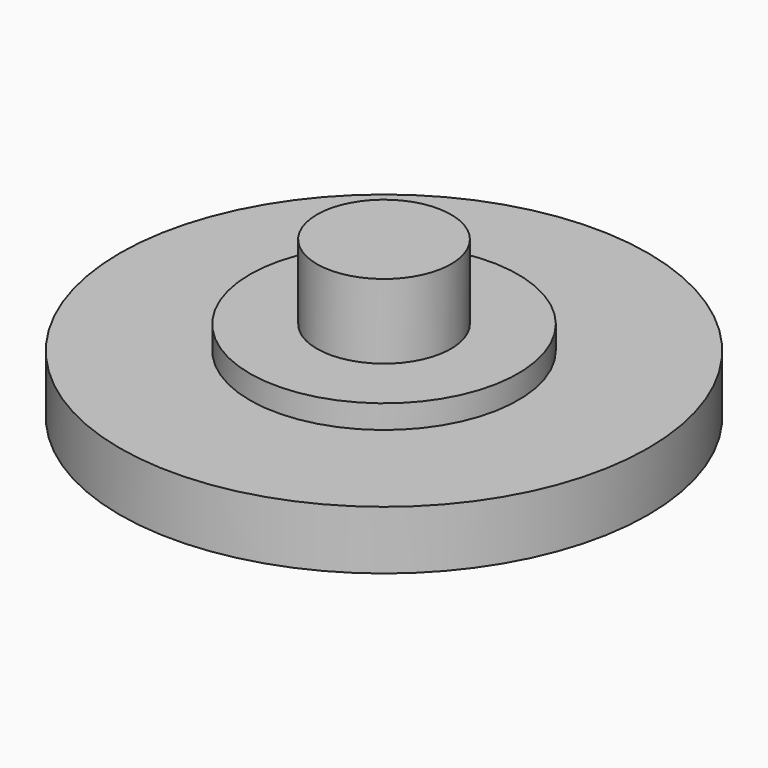
from build123d import *


with BuildPart() as f1:
    # F0 (on Front) → F1 (revolve)
    with BuildSketch(Plane.XZ):
        with BuildLine():
            Line((-11.43, 5), (-22.5, 5))
            Line((-22.5, 5), (-22.5, 0))
            ThreePointArc((-22.5, 0), (-11.324083, 1.836034), (0, 2.029108))
            Line((0, 2.029108), (0, 13.35))
            Line((0, 13.35), (-5.715, 13.35))
            Line((-5.715, 13.35), (-5.715, 7))
            Line((-5.715, 7), (-11.43, 7))
            Line((-11.43, 7), (-11.43, 5))
        make_face()
    revolve(axis=Axis((0, 0, 7.689554), (0, 0, -1)))


solid = f1.part
